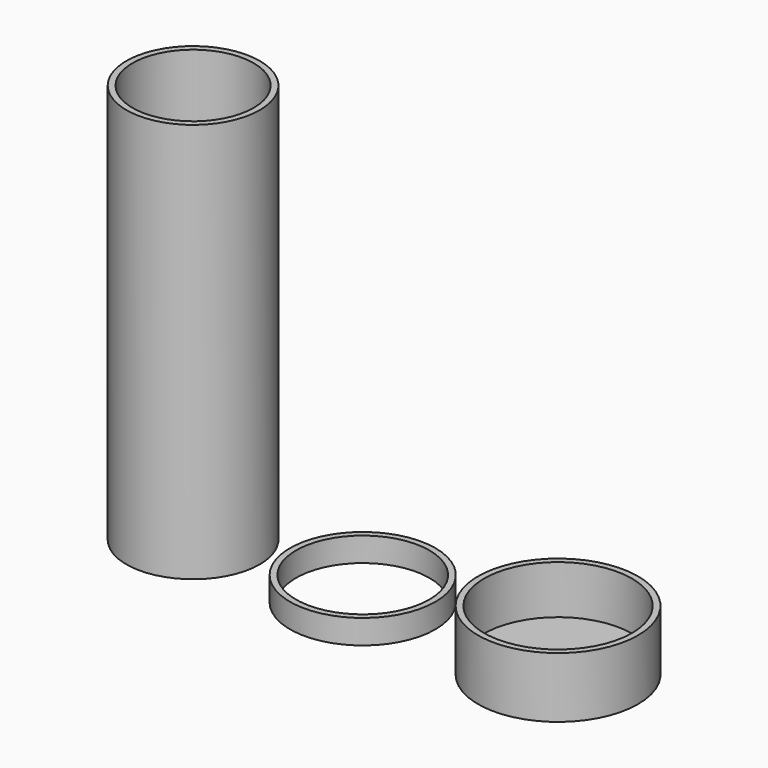
from build123d import *

# Parameters (mm, degrees)
F0_R     = 5.5
F0_R_2   = 5
F1_DEPTH = 33
F2_DEPTH = 1
F0_R_3   = 6
F3_DEPTH = 2
F0_R_4   = 6.6
F0_R_5   = 6.1
F4_DEPTH = 5
F5_DEPTH = 1


with BuildPart() as f1:
    # F0 (on Top) → F1 (new body)
    with BuildSketch(Plane.XY):
        Circle(F0_R)
        Circle(F0_R_2, mode=Mode.SUBTRACT)
    extrude(amount=F1_DEPTH)

    # F0 (on Top) → F2 (join)
    with BuildSketch(Plane.XY):
        Circle(F0_R_2)
    extrude(amount=F2_DEPTH)


with BuildPart() as f3:
    # F0 (on Top) → F3 (new body)
    with BuildSketch(Plane.XY):
        with Locations((13.996662, 0)):
            Circle(F0_R_3)
        with Locations((13.996662, 0)):
            Circle(F0_R, mode=Mode.SUBTRACT)
    extrude(amount=F3_DEPTH)


with BuildPart() as f4:
    # F0 (on Top) → F4 (new body)
    with BuildSketch(Plane.XY):
        with Locations((30.110849, 0)):
            Circle(F0_R_4)
        with Locations((30.110849, 0)):
            Circle(F0_R_5, mode=Mode.SUBTRACT)
    extrude(amount=F4_DEPTH)

    # F0 (on Top) → F5 (join)
    with BuildSketch(Plane.XY):
        with Locations((30.110849, 0)):
            Circle(F0_R_5)
    extrude(amount=F5_DEPTH)


solid = Compound([f1.part, f3.part, f4.part])
